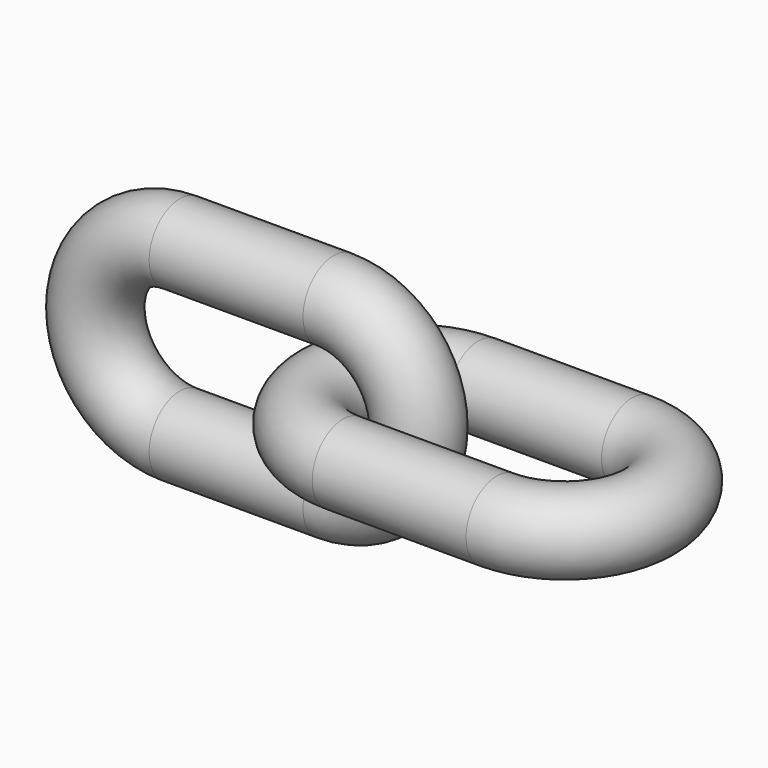
from build123d import *

# Parameters (mm, degrees)
F1_R     = 2.5
F4_ANGLE = 90


with BuildPart() as f2:
    # F2: sweep along a path in F0
    with BuildLine(Plane.XZ) as f2_path:
        Line((-10, 5.5), (0, 5.5))
        ThreePointArc((0, 5.5), (5.5, 0), (0, -5.5))
        Line((0, -5.5), (-10, -5.5))
        ThreePointArc((-10, -5.5), (-15.5, 0), (-10, 5.5))
    # F1 (on Right) → F2 (sweep)
    with BuildSketch(Plane.YZ):
        with Locations((0, 5.5)):
            Circle(F1_R)
    sweep(path=f2_path.line)


with BuildPart() as f3_1:
    # F3: copy of F2
    add(f2.part.moved(Location((15, 0, 0))))


with BuildPart() as f3_1_1:
    # F4: moved
    add(f3_1.part.rotate(Axis((-5, 0, 0), (1, 0, 0)), F4_ANGLE))


solid = Compound([f2.part, f3_1_1.part])
